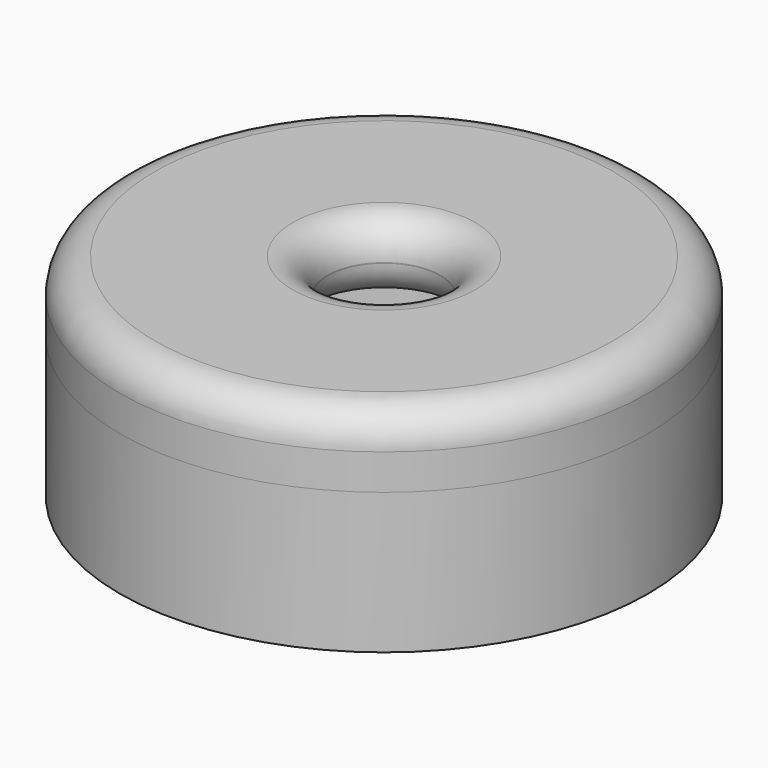
from build123d import *

# Parameters (mm, degrees)
SKETCH_R      = 7.5
SKETCH_R_2    = 6
PAD_DEPTH     = 4
SKETCH001_R   = 7.5
SKETCH001_R_2 = 1.6
PAD001_DEPTH  = 2
FILLET_R      = 0.99


with BuildPart() as part:
    # Sketch → Pad (new body)
    with BuildSketch(Plane.XY):
        Circle(SKETCH_R)
        Circle(SKETCH_R_2, mode=Mode.SUBTRACT)
    extrude(amount=-PAD_DEPTH)

    # Sketch001 → Pad001 (join)
    with BuildSketch(Plane.XY):
        Circle(SKETCH001_R)
        Circle(SKETCH001_R_2, mode=Mode.SUBTRACT)
    extrude(amount=PAD001_DEPTH)

    # Fillet
    fillet_edges = [part.edges().sort_by_distance(p)[0] for p in [
        (-1.6, 0, 2),
        (-1.6, 0, 0),
        (-7.5, 0, 2),
        (-6, 0, -4),
    ]]
    fillet(fillet_edges, radius=FILLET_R)


solid = part.part
